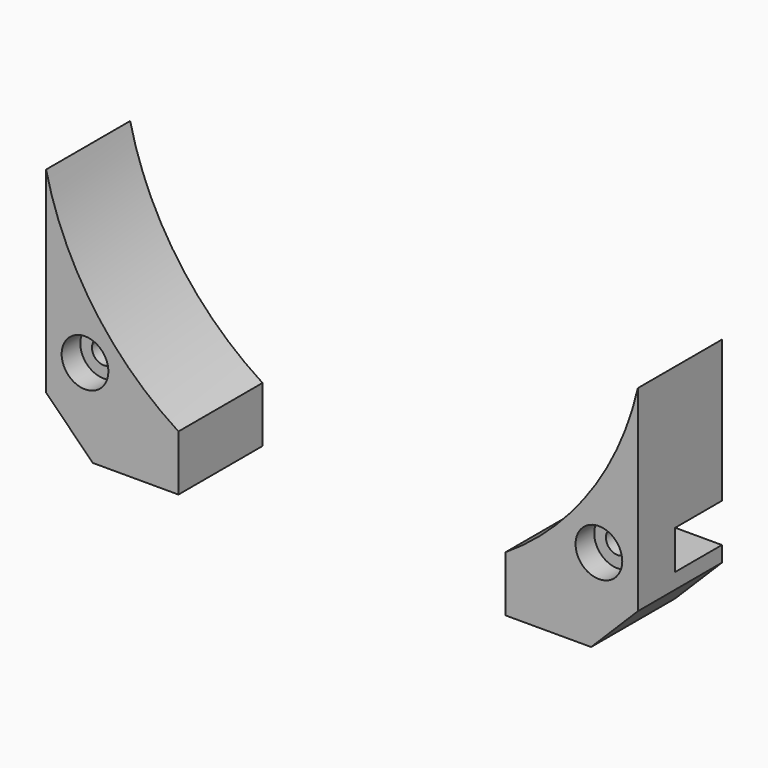
from build123d import *

# Parameters (mm, degrees)
CYLINDER2680_R     = 1.5
CYLINDER2680_DEPTH = 60
CYLINDER2679_R     = 1.5
CYLINDER2679_DEPTH = 60
CYLINDER2678_R     = 3
CYLINDER2678_DEPTH = 3
CYLINDER2677_R     = 3
CYLINDER2677_DEPTH = 3
CYLINDER_R         = 39
CYLINDER_DEPTH     = 20
CYLINDER2675_R     = 38
CYLINDER2675_DEPTH = 16
BOX914_W           = 8
BOX914_H           = 69
BOX914_DEPTH       = 6
CHAMFER143_SIZE    = 1
CHAMFER141_SIZE    = 1
CYLINDER2676_R     = 38
CYLINDER2676_DEPTH = 16
BOX915_W           = 8
BOX915_H           = 69
BOX915_DEPTH       = 6
CHAMFER142_SIZE    = 1
CHAMFER140_SIZE    = 1
BOX913_W           = 17
BOX913_H           = 13.5
BOX913_DEPTH       = 40
BOX912_W           = 17
BOX912_H           = 13.5
BOX912_DEPTH       = 40
CHAMFER_SIZE       = 6


with BuildPart() as obj1:
    # Cylinder2680 → Cylinder2680 (new body)
    with BuildSketch(Plane(origin=(33, -10, 8), x_dir=(1, 0, 0), z_dir=(0, -1, 0))):
        Circle(CYLINDER2680_R)
    extrude(amount=CYLINDER2680_DEPTH)


with BuildPart() as compound1190:
    # Cylinder2679 → Cylinder2679 (new body)
    with BuildSketch(Plane(origin=(-33, -10, 8), x_dir=(1, 0, 0), z_dir=(0, -1, 0))):
        Circle(CYLINDER2679_R)
    extrude(amount=CYLINDER2679_DEPTH)

    # Compound1190: union obj1
    add(obj1.part)


with BuildPart() as compound1190_1:
    # Compound1190 placement: moved
    add(compound1190.part.moved(Location((0, -4, 0))))


with BuildPart() as obj2:
    # Cylinder2678 → Cylinder2678 (new body)
    with BuildSketch(Plane(origin=(33, -61, 8), x_dir=(1, 0, 0), z_dir=(0, -1, 0))):
        Circle(CYLINDER2678_R)
    extrude(amount=CYLINDER2678_DEPTH)


with BuildPart() as compound1189:
    # Cylinder2677 → Cylinder2677 (new body)
    with BuildSketch(Plane(origin=(-33, -61, 8), x_dir=(1, 0, 0), z_dir=(0, -1, 0))):
        Circle(CYLINDER2677_R)
    extrude(amount=CYLINDER2677_DEPTH)

    # Compound1189: union obj2
    add(obj2.part)


with BuildPart() as compound1189_1:
    # Compound1189 placement: moved
    add(compound1189.part.moved(Location((0, -10, 0))))


with BuildPart() as obj3:
    # Cylinder → Cylinder (new body)
    with BuildSketch(Plane(origin=(0, -54, 37), x_dir=(1, 0, 0), z_dir=(0, -1, 0))):
        Circle(CYLINDER_R)
    extrude(amount=CYLINDER_DEPTH)


with BuildPart() as obj4:
    # Cylinder2675 → Cylinder2675 (new body)
    with BuildSketch(Plane.XY):
        Circle(CYLINDER2675_R)
    extrude(amount=CYLINDER2675_DEPTH)


with BuildPart() as cut997:
    # Box914 → Box914 (new body)
    with BuildSketch(Plane(origin=(-38, -68, 5), x_dir=(1, 0, 0), z_dir=(0, 0, 1))):
        with Locations((4, 34.5)):
            Rectangle(BOX914_W, BOX914_H)
    extrude(amount=BOX914_DEPTH)

    # Chamfer143
    chamfer143_edges = [cut997.edges().sort_by_distance(p)[0] for p in [
        (-38, -33.5, 11),
    ]]
    chamfer(chamfer143_edges, length=CHAMFER143_SIZE)

    # Chamfer141
    chamfer141_edges = [cut997.edges().sort_by_distance(p)[0] for p in [
        (-30, -33.5, 11),
    ]]
    chamfer(chamfer141_edges, length=CHAMFER141_SIZE)

    # Cut997: cut obj4
    add(obj4.part, mode=Mode.SUBTRACT)


with BuildPart() as obj5:
    # Cylinder2676 → Cylinder2676 (new body)
    with BuildSketch(Plane.XY):
        Circle(CYLINDER2676_R)
    extrude(amount=CYLINDER2676_DEPTH)


with BuildPart() as compound1188:
    # Box915 → Box915 (new body)
    with BuildSketch(Plane(origin=(30, -68, 5), x_dir=(1, 0, 0), z_dir=(0, 0, 1))):
        with Locations((4, 34.5)):
            Rectangle(BOX915_W, BOX915_H)
    extrude(amount=BOX915_DEPTH)

    # Chamfer142
    chamfer142_edges = [compound1188.edges().sort_by_distance(p)[0] for p in [
        (38, -33.5, 11),
    ]]
    chamfer(chamfer142_edges, length=CHAMFER142_SIZE)

    # Chamfer140
    chamfer140_edges = [compound1188.edges().sort_by_distance(p)[0] for p in [
        (30, -33.5, 11),
    ]]
    chamfer(chamfer140_edges, length=CHAMFER140_SIZE)

    # Cut998: cut obj5
    add(obj5.part, mode=Mode.SUBTRACT)

    # Compound1188: union Cut997
    add(cut997.part)


with BuildPart() as krychle912:
    # Box913 → Box913 (new body)
    with BuildSketch(Plane(origin=(-38, -68, -3), x_dir=(1, 0, 0), z_dir=(0, 0, 1))):
        with Locations((8.5, 6.75)):
            Rectangle(BOX913_W, BOX913_H)
    extrude(amount=BOX913_DEPTH)


with BuildPart() as cut1001:
    # Box912 → Box912 (new body)
    with BuildSketch(Plane(origin=(21, -68, -3), x_dir=(1, 0, 0), z_dir=(0, 0, 1))):
        with Locations((8.5, 6.75)):
            Rectangle(BOX912_W, BOX912_H)
    extrude(amount=BOX912_DEPTH)

    # Compound1184: union Krychle912
    add(krychle912.part)


with BuildPart() as cut1001_1:
    # Compound1184 placement: moved
    add(cut1001.part.moved(Location((0, -6, 0))))

    # Cut: cut Compound1188
    add(compound1188.part, mode=Mode.SUBTRACT)

    # Cut999: cut obj3
    add(obj3.part, mode=Mode.SUBTRACT)

    # Chamfer
    chamfer_edges = [cut1001_1.edges().sort_by_distance(p)[0] for p in [
        (38, -67.25, -3),
        (-38, -67.25, -3),
    ]]
    chamfer(chamfer_edges, length=CHAMFER_SIZE)

    # Cut1000: cut Compound1189
    add(compound1189_1.part, mode=Mode.SUBTRACT)

    # Cut1001: cut Compound1190
    add(compound1190_1.part, mode=Mode.SUBTRACT)


solid = cut1001_1.part
